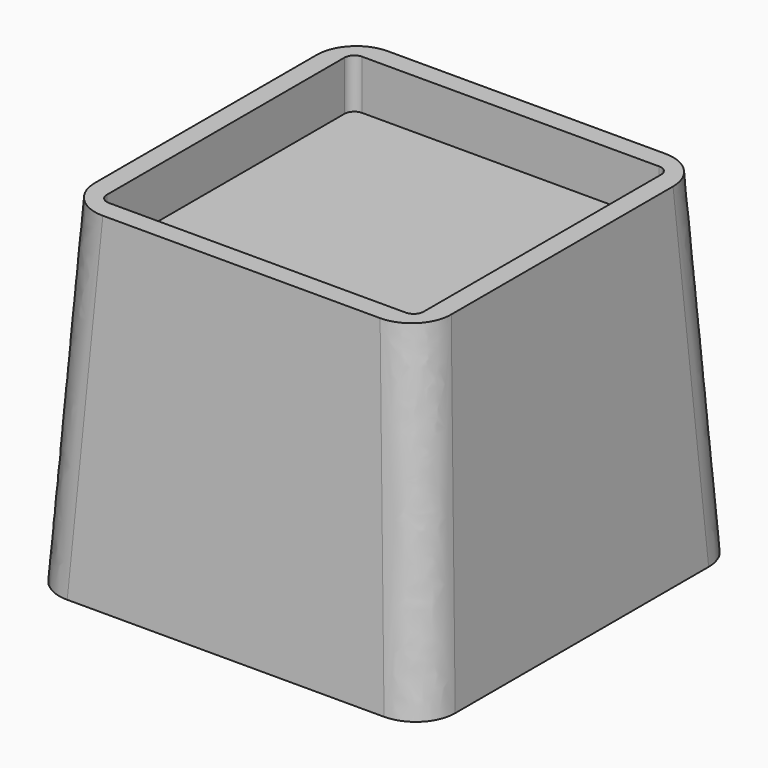
from build123d import *

# Parameters (mm, degrees)
F4_W     = 40
F4_H     = 40
F5_W     = 36
F5_H     = 36
F0_W     = 32
F0_H     = 32
F7_DEPTH = 25
F8_R     = 4
F9_R     = 1


with BuildPart() as f6:
    # F4 (on plane+point) → F6 section 0
    with BuildSketch(Plane.XY.offset(-29)):
        Rectangle(F4_W, F4_H)
    # F5 (on offset) → F6 section 1
    with BuildSketch(Plane.XY.offset(5)):
        Rectangle(F5_W, F5_H)
    loft()

    # F0 (on Top) → F7 (cut)
    with BuildSketch(Plane.XY):
        Rectangle(F0_W, F0_H)
    extrude(amount=F7_DEPTH, mode=Mode.SUBTRACT)

    # F8
    f8_edges = [f6.edges().sort_by_distance(p)[0] for p in [
        (19, -19, -12),
        (19, 19, -12),
        (-19, -19, -12),
        (-19, 19, -12),
    ]]
    fillet(f8_edges, radius=F8_R)

    # F9
    f9_edges = [f6.edges().sort_by_distance(p)[0] for p in [
        (-16, 16, 2.5),
        (16, 16, 2.5),
        (16, -16, 2.5),
        (-16, -16, 2.5),
    ]]
    fillet(f9_edges, radius=F9_R)


solid = f6.part
